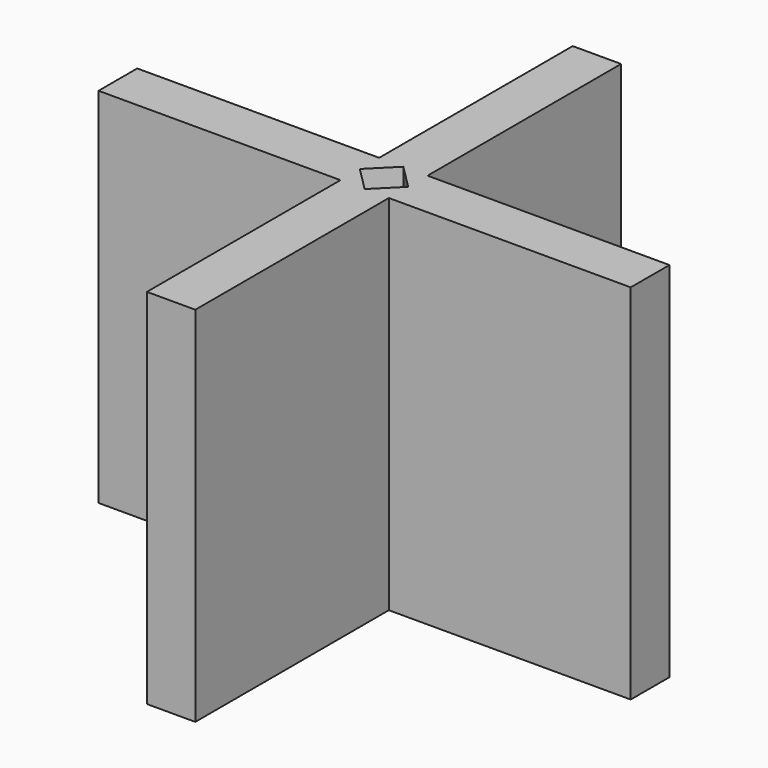
from build123d import *

# Parameters (mm, degrees)
F1_DEPTH = 38.1


with BuildPart() as f1:
    # F0 (on Top) → F1 (new body)
    with BuildSketch(Plane.XY):
        Polygon((0, 25.4), (0, 0), (-25.4, 0), (-25.4, -5.08), (0, -5.08), (0, -30.479991), (5.08, -30.479991), (5.08, -5.079991), (30.470396, -5.079991), (30.48, 0), (5.08, 0), (5.08, 25.4), align=None)
        Polygon((0, -2.54), (2.54, 0), (5.08, -2.539995), (2.54, -5.079995), align=None, mode=Mode.SUBTRACT)
    extrude(amount=F1_DEPTH)


solid = f1.part
